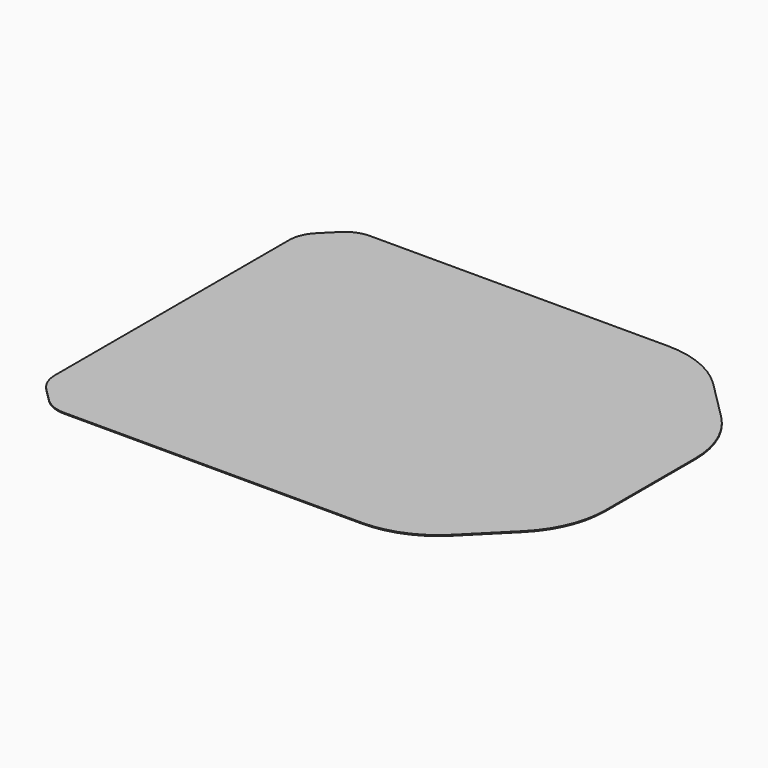
from build123d import *

# Parameters (mm, degrees)
F0_W     = 1500
F0_H     = 1200
F1_DEPTH = 3
F2_SIZE  = 300
F3_SIZE  = 100
F4_R     = 300
F5_R     = 100


with BuildPart() as f1:
    # F0 (on Top) → F1 (new body)
    with BuildSketch(Plane.XY):
        Rectangle(F0_W, F0_H)
    extrude(amount=F1_DEPTH)

    # F2
    f2_edges = [f1.edges().sort_by_distance(p)[0] for p in [
        (750, -600, 1.5),
        (750, 600, 1.5),
    ]]
    chamfer(f2_edges, length=F2_SIZE)

    # F3
    f3_edges = [f1.edges().sort_by_distance(p)[0] for p in [
        (-750, -600, 1.5),
        (-750, 600, 1.5),
    ]]
    chamfer(f3_edges, length=F3_SIZE)

    # F4
    f4_edges = [f1.edges().sort_by_distance(p)[0] for p in [
        (750, -300, 1.5),
        (450, -600, 1.5),
        (750, 300, 1.5),
        (450, 600, 1.5),
    ]]
    fillet(f4_edges, radius=F4_R)

    # F5
    f5_edges = [f1.edges().sort_by_distance(p)[0] for p in [
        (-750, -500, 1.5),
        (-650, -600, 1.5),
        (-650, 600, 1.5),
        (-750, 500, 1.5),
    ]]
    fillet(f5_edges, radius=F5_R)


solid = f1.part
